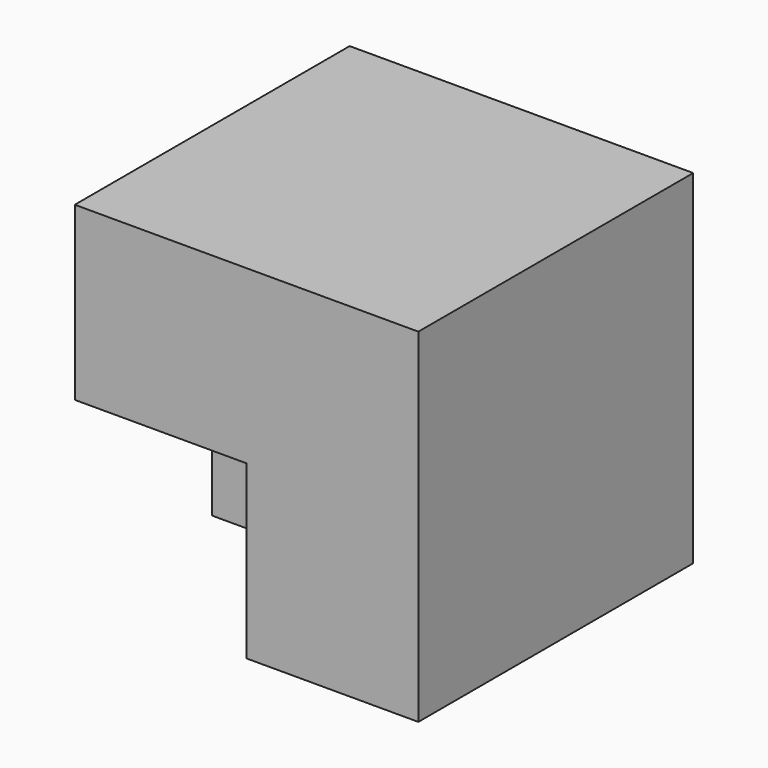
from build123d import *

# Parameters (mm, degrees)
F0_W     = 50.8
F0_H     = 50.8
F1_DEPTH = 50.8
F2_W     = 25.4
F2_H     = 25.4
F3_DEPTH = 25.4


with BuildPart() as f1:
    # F0 (on Front) → F1 (new body)
    with BuildSketch(Plane.XZ):
        with Locations((-39.11244, -26.638065)):
            Rectangle(F0_W, F0_H)
        with Locations((-39.11244, -26.638065)):
            Rectangle(F0_W, F0_H)
    extrude(amount=F1_DEPTH)

    # F2 (on face) → F3 (cut)
    with BuildSketch(Plane.XZ.offset(50.8)):
        with Locations((-51.81244, -39.338065)):
            Rectangle(F2_W, F2_H)
    extrude(amount=-F3_DEPTH, mode=Mode.SUBTRACT)


solid = f1.part
